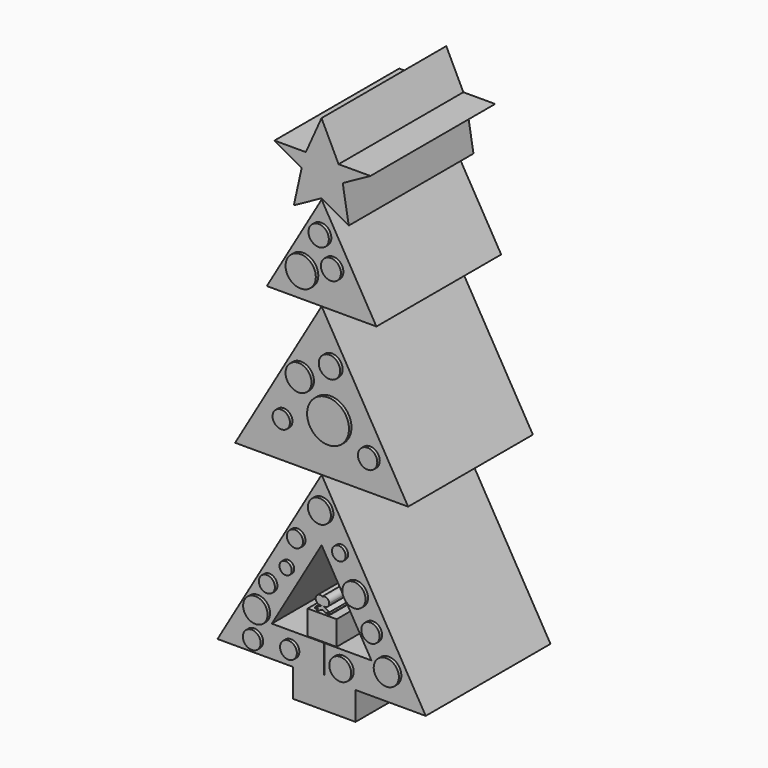
from build123d import *

# Parameters (mm, degrees)
F1_DEPTH  = 12.7
F0_W      = 5.1002390683
F0_H      = 2.2895792141
F3_DEPTH  = 12.7
F4_T      = -2.54
F5_W      = 2.3613683879
F5_H      = 1.981863752
F6_DEPTH  = 12.7
F9_DEPTH  = 12.7
F10_R     = 0.8285733242
F11_DEPTH = 12.954
F10_R_2   = 0.816047988
F10_R_3   = 1.231762956
F10_R_4   = 0.8709889413
F10_R_5   = 1.0562272673
F10_R_6   = 1.7061367345
F10_R_7   = 0.7079304111
F10_R_8   = 0.7882346416
F10_R_9   = 0.9374227375
F10_R_10  = 0.5558247078
F10_R_11  = 0.9447190346
F10_R_12  = 1.0232124047
F10_R_13  = 0.7457160445
F10_R_14  = 0.8924004094
F10_R_15  = 0.6550450615
F10_R_16  = 0.5005847924
F10_R_17  = 0.6550465609
F10_R_18  = 0.9960107067
F10_R_19  = 0.7247049022
F10_R_20  = 0.6857666645


with BuildPart() as f1:
    # F0 (on Front) → F1 (new body)
    with BuildSketch(Plane.XZ):
        Polygon((39.5268499851, 43.0332645774), (35.0641421974, 50.6836250424), (30.601432547, 43.0332645774), (35.064141266, 43.0332645774), align=None)
    extrude(amount=F1_DEPTH)


with BuildPart() as f1b:
    # F0 (on Front) → F1, piece 2 (new body)
    with BuildSketch(Plane.XZ):
        Polygon((43.5429106829, 16.4214921757), (35.0641397959, 30.9565360708), (26.58536537, 16.4214921757), (32.726533711, 16.4214921757), (37.8267727792, 16.4214921757), align=None)
        with Locations((35.2766532451, 15.2767025686)):
            Rectangle(F0_W, F0_H)
    extrude(amount=F1_DEPTH)

    # F4
    f4_openings = [f1b.faces().sort_by_distance(p)[0] for p in [
        (35.082532, -12.7, 20.748073),
    ]]
    offset(amount=F4_T, openings=f4_openings, kind=Kind.INTERSECTION)

    # F5 (on Front) → F6 (join)
    with BuildSketch(Plane.XZ):
        with Locations((35.1034533232, 20.0025467202)):
            Rectangle(F5_W, F5_H)
    extrude(amount=F6_DEPTH)

    # F8 (on Front) + F7 (on Front) → F9 (join)
    with BuildSketch(Plane.XZ):
        with BuildLine():
            ThreePointArc((35.1240735138, 21.6184950134), (35.4950862646, 21.6150209975), (35.6816027436, 21.9357609749))
            ThreePointArc((35.6816027436, 21.9357609749), (35.4950862646, 22.2565009523), (35.1240735138, 22.2530269364))
            ThreePointArc((35.1240735138, 22.2530269364), (35.2590926691, 22.1192661278), (35.3085697856, 21.9357609749))
            ThreePointArc((35.3085697856, 21.9357609749), (35.2590926691, 21.7522558219), (35.1240735138, 21.6184950134))
        make_face()
        with BuildLine():
            ThreePointArc((35.3085697856, 21.9357609749), (35.2590926691, 22.1192661278), (35.1240735138, 22.2530269364))
            ThreePointArc((35.1240735138, 22.2530269364), (34.9435310688, 21.9357609749), (35.1240735138, 21.6184950134))
            ThreePointArc((35.1240735138, 21.6184950134), (35.2590926691, 21.7522558219), (35.3085697856, 21.9357609749))
        make_face()
        with BuildLine():
            ThreePointArc((35.1240735138, 21.6184950134), (34.9435310688, 21.9357609749), (35.1240735138, 22.2530269364))
            ThreePointArc((35.1240735138, 22.2530269364), (34.578492352, 21.9357609749), (35.1240735138, 21.6184950134))
        make_face()
    with BuildSketch(Plane.XZ):
        Polygon((34.635193646, 21.0458748043), (35.1399034262, 21.298231557), (35.6446132064, 21.0458748043), (35.5184338987, 21.298231557), (35.7575084818, 21.1786933831), (35.6977389537, 21.298231557), (35.1399034262, 21.6070363641), (34.5222983705, 21.298231557), (34.5222983705, 21.1786933831), (34.7613729537, 21.298231557), align=None)
    extrude(amount=F9_DEPTH)


with BuildPart() as f1c:
    # F0 (on Front) → F1, piece 3 (new body)
    with BuildSketch(Plane.XZ):
        Polygon((42.1088956411, 30.9565360708), (35.064141266, 43.0332645774), (28.0193839506, 30.9565360708), (35.0641397959, 30.9565360708), align=None)
    extrude(amount=F1_DEPTH)


with BuildPart() as f3:
    # F2 (on Front) → F3 (new body)
    with BuildSketch(Plane.XZ):
        Polygon((32.8011631288, 49.5362356305), (35.0551791489, 50.7759414613), (37.2716188431, 49.5362356305), (36.7832519114, 52.4288825691), (39.0372611582, 53.6685846746), (36.4451482892, 53.6685846746), (35.0551791489, 56.5236620605), (33.7779074907, 53.6685846746), (31.2233708347, 53.6685846746), (33.4398038685, 52.4288825691), align=None)
    extrude(amount=F3_DEPTH)


with BuildPart() as f11:
    # F10 (on Front) → F11 (new body)
    with BuildSketch(Plane.XZ):
        with Locations((35.0261703134, 48.1970235705)):
            Circle(F10_R)
    extrude(amount=F11_DEPTH)


with BuildPart() as f11b:
    # F10 (on Front) → F11, piece 2 (new body)
    with BuildSketch(Plane.XZ):
        with Locations((36.022182554, 46.0878200829)):
            Circle(F10_R_2)
    extrude(amount=F11_DEPTH)


with BuildPart() as f11c:
    # F10 (on Front) → F11, piece 3 (new body)
    with BuildSketch(Plane.XZ):
        with Locations((33.5614457726, 45.1503992081)):
            Circle(F10_R_3)
    extrude(amount=F11_DEPTH)


with BuildPart() as f11d:
    # F10 (on Front) → F11, piece 4 (new body)
    with BuildSketch(Plane.XZ):
        with Locations((35.9050035477, 39.0571467578)):
            Circle(F10_R_4)
    extrude(amount=F11_DEPTH)


with BuildPart() as f11e:
    # F10 (on Front) → F11, piece 5 (new body)
    with BuildSketch(Plane.XZ):
        with Locations((33.3856791258, 37.4752432108)):
            Circle(F10_R_5)
    extrude(amount=F11_DEPTH)


with BuildPart() as f11f:
    # F10 (on Front) → F11, piece 6 (new body)
    with BuildSketch(Plane.XZ):
        with Locations((35.7878245413, 35.1316854358)):
            Circle(F10_R_6)
    extrude(amount=F11_DEPTH)


with BuildPart() as f11g:
    # F10 (on Front) → F11, piece 7 (new body)
    with BuildSketch(Plane.XZ):
        with Locations((31.9795422256, 34.0184941888)):
            Circle(F10_R_7)
    extrude(amount=F11_DEPTH)


with BuildPart() as f11h:
    # F10 (on Front) → F11, piece 8 (new body)
    with BuildSketch(Plane.XZ):
        with Locations((39.010219276, 33.4911942482)):
            Circle(F10_R_8)
    extrude(amount=F11_DEPTH)


with BuildPart() as f11i:
    # F10 (on Front) → F11, piece 9 (new body)
    with BuildSketch(Plane.XZ):
        with Locations((35.0847579539, 28.4525454044)):
            Circle(F10_R_9)
    extrude(amount=F11_DEPTH)


with BuildPart() as f11j:
    # F10 (on Front) → F11, piece 10 (new body)
    with BuildSketch(Plane.XZ):
        with Locations((36.6666615009, 25.9332209826)):
            Circle(F10_R_10)
    extrude(amount=F11_DEPTH)


with BuildPart() as f11k:
    # F10 (on Front) → F11, piece 11 (new body)
    with BuildSketch(Plane.XZ):
        with Locations((37.897028029, 23.3553070575)):
            Circle(F10_R_11)
    extrude(amount=F11_DEPTH)


with BuildPart() as f11l:
    # F10 (on Front) → F11, piece 12 (new body)
    with BuildSketch(Plane.XZ):
        with Locations((40.5335314572, 18.6681896448)):
            Circle(F10_R_12)
    extrude(amount=F11_DEPTH)


with BuildPart() as f11m:
    # F10 (on Front) → F11, piece 13 (new body)
    with BuildSketch(Plane.XZ):
        with Locations((39.2445735633, 21.070336923)):
            Circle(F10_R_13)
    extrude(amount=F11_DEPTH)


with BuildPart() as f11n:
    # F10 (on Front) → F11, piece 14 (new body)
    with BuildSketch(Plane.XZ):
        with Locations((36.783836782, 17.6721774042)):
            Circle(F10_R_14)
    extrude(amount=F11_DEPTH)


with BuildPart() as f11o:
    # F10 (on Front) → F11, piece 15 (new body)
    with BuildSketch(Plane.XZ):
        with Locations((33.0927334726, 25.8160419762)):
            Circle(F10_R_15)
    extrude(amount=F11_DEPTH)


with BuildPart() as f11p:
    # F10 (on Front) → F11, piece 16 (new body)
    with BuildSketch(Plane.XZ):
        with Locations((32.3310755193, 23.4724842012)):
            Circle(F10_R_16)
    extrude(amount=F11_DEPTH)


with BuildPart() as f11q:
    # F10 (on Front) → F11, piece 17 (new body)
    with BuildSketch(Plane.XZ):
        with Locations((30.8077652007, 21.8319948763)):
            Circle(F10_R_17)
    extrude(amount=F11_DEPTH)


with BuildPart() as f11r:
    # F10 (on Front) → F11, piece 18 (new body)
    with BuildSketch(Plane.XZ):
        with Locations((29.8703406006, 19.6642018855)):
            Circle(F10_R_18)
    extrude(amount=F11_DEPTH)


with BuildPart() as f11s:
    # F10 (on Front) → F11, piece 19 (new body)
    with BuildSketch(Plane.XZ):
        with Locations((29.5773968101, 17.4378212541)):
            Circle(F10_R_19)
    extrude(amount=F11_DEPTH)


with BuildPart() as f11t:
    # F10 (on Front) → F11, piece 20 (new body)
    with BuildSketch(Plane.XZ):
        with Locations((32.565433532, 17.6721774042)):
            Circle(F10_R_20)
    extrude(amount=F11_DEPTH)


solid = Compound([f1.part, f1b.part, f1c.part, f3.part, f11.part, f11b.part, f11c.part, f11d.part, f11e.part, f11f.part, f11g.part, f11h.part, f11i.part, f11j.part, f11k.part, f11l.part, f11m.part, f11n.part, f11o.part, f11p.part, f11q.part, f11r.part, f11s.part, f11t.part])
